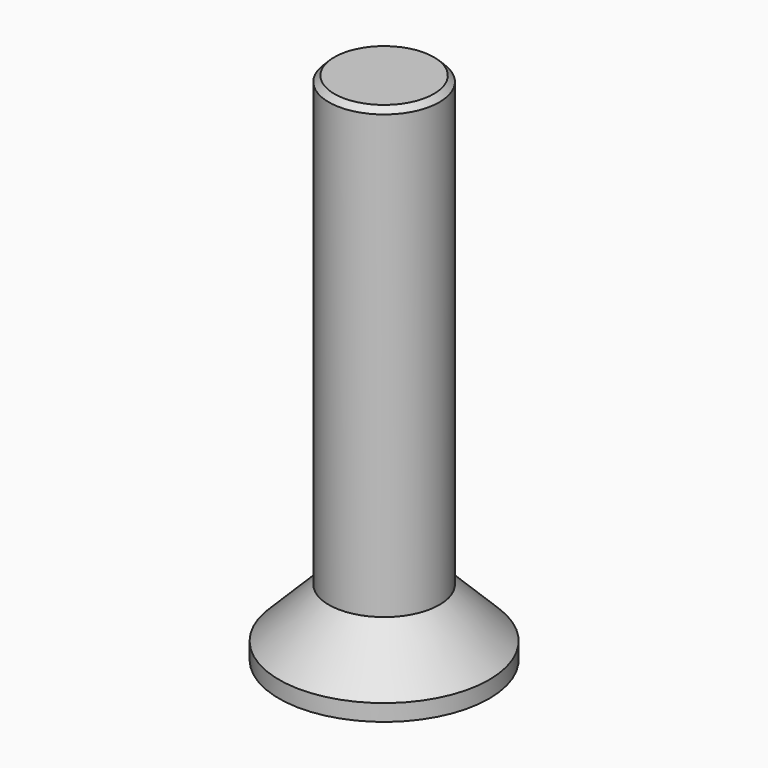
from build123d import *

# Parameters (mm, degrees)
BOX_W             = 0.2
BOX_H             = 2.5
BOX_DEPTH         = 0.5
BOX001_W          = 2.5
BOX001_H          = 0.2
BOX001_DEPTH      = 0.5
CYLINDER_R        = 1.9
CYLINDER_DEPTH    = 1.2
CYLINDER001_R     = 1
CYLINDER001_DEPTH = 9.2
CHAMFER_SIZE      = 0.8999
CHAMFER001_SIZE   = 0.1


with BuildPart() as obj1:
    # Box → Box (new body)
    with BuildSketch(Plane(origin=(-0.1, -1.25, 0), x_dir=(1, 0, 0), z_dir=(0, 0, 1))):
        with Locations((0.1, 1.25)):
            Rectangle(BOX_W, BOX_H)
    extrude(amount=BOX_DEPTH)


with BuildPart() as fusion:
    # Box001 → Box001 (new body)
    with BuildSketch(Plane(origin=(-1.25, -0.1, 0), x_dir=(1, 0, 0), z_dir=(0, 0, 1))):
        with Locations((1.25, 0.1)):
            Rectangle(BOX001_W, BOX001_H)
    extrude(amount=BOX001_DEPTH)

    # Fusion: union obj1
    add(obj1.part)


with BuildPart() as zylinder:
    # Cylinder → Cylinder (new body)
    with BuildSketch(Plane.XY):
        Circle(CYLINDER_R)
    extrude(amount=CYLINDER_DEPTH)


with BuildPart() as screw:
    # Cylinder001 → Cylinder001 (new body)
    with BuildSketch(Plane.XY.offset(0.1)):
        Circle(CYLINDER001_R)
    extrude(amount=CYLINDER001_DEPTH)

    # Fusion001: union Zylinder
    add(zylinder.part)

    # Cut: cut Fusion
    add(fusion.part, mode=Mode.SUBTRACT)

    # Chamfer
    chamfer_edges = [screw.edges().sort_by_distance(p)[0] for p in [
        (-1.9, 0, 1.2),
    ]]
    chamfer(chamfer_edges, length=CHAMFER_SIZE)

    # Chamfer001
    chamfer001_edges = [screw.edges().sort_by_distance(p)[0] for p in [
        (-1, 0, 9.3),
    ]]
    chamfer(chamfer001_edges, length=CHAMFER001_SIZE)


solid = screw.part
